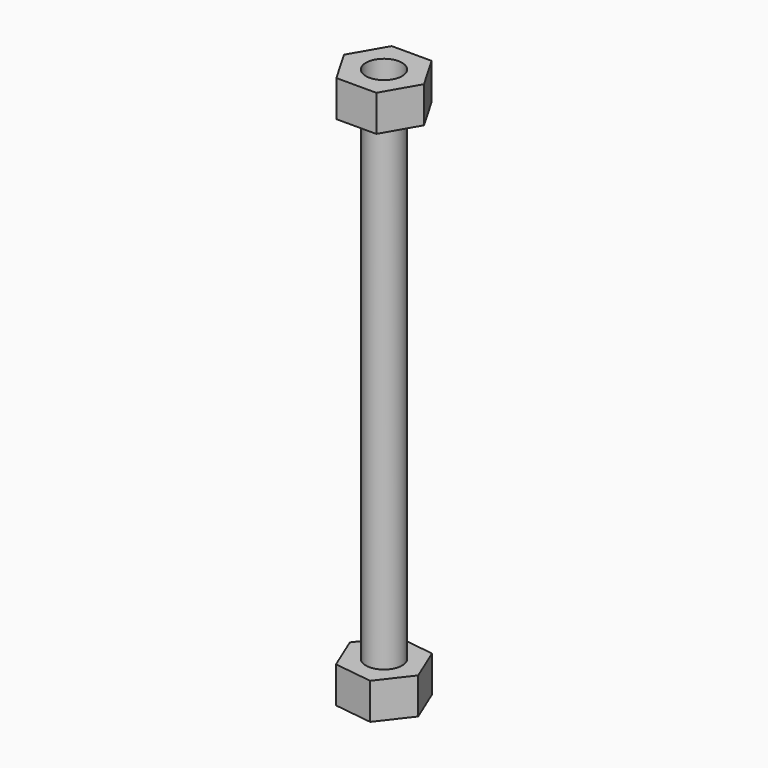
from build123d import *

# Parameters (mm, degrees)
F0_R     = 6
F1_DEPTH = 160
F2_DEPTH = 12
F3_R     = 6
F4_DEPTH = 12


with BuildPart() as f1:
    # F0 (on Top) → F1 (new body)
    with BuildSketch(Plane.XY):
        Circle(F0_R)
    extrude(amount=F1_DEPTH)

    # F0 (on Top) → F2 (join)
    with BuildSketch(Plane.XY):
        Polygon((-4.8783502823, 11.8265430801), (-12.6812618875, 1.688496267), (-7.8029116052, -10.1380468131), (4.8783502823, -11.8265430801), (12.6812618875, -1.688496267), (7.8029116052, 10.1380468131), align=None)
        Circle(F0_R, mode=Mode.SUBTRACT)
    extrude(amount=-F2_DEPTH)


with BuildPart() as f4:
    # F3 (on face) → F4 (new body)
    with BuildSketch(Plane.XY.offset(160)):
        Polygon((-6.621212456, -11.4682763815), (6.621212456, -11.4682763815), (13.242424912, 0), (6.621212456, 11.4682763815), (-6.621212456, 11.4682763815), (-13.242424912, 0), align=None)
        Circle(F3_R, mode=Mode.SUBTRACT)
    extrude(amount=F4_DEPTH)


solid = Compound([f1.part, f4.part])
